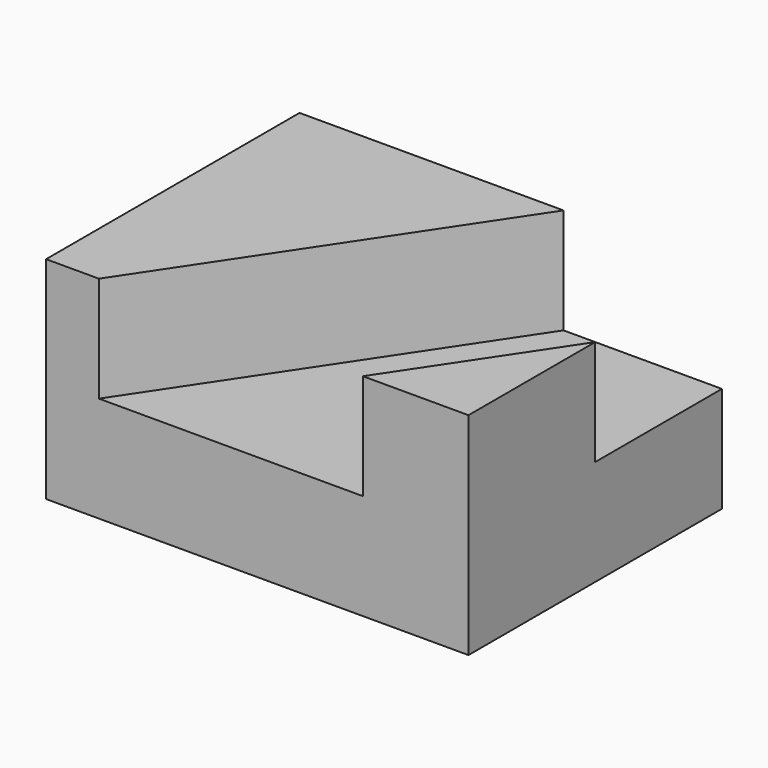
from build123d import *

# Parameters (mm, degrees)
F0_W     = 50.8
F0_H     = 38.1
F1_DEPTH = 12.7
F3_DEPTH = 12.7


with BuildPart() as f1:
    # F0 (on Top) → F1 (new body)
    with BuildSketch(Plane.XY):
        with Locations((4.51437, 14.624796)):
            Rectangle(F0_W, F0_H)
    extrude(amount=F1_DEPTH)

    # F2 (on face) → F3 (join)
    with BuildSketch(Plane.XY.offset(12.7)):
        Polygon((17.21437, -4.425204), (29.91437, -4.425204), (29.91437, 14.624796), align=None)
        Polygon((-20.88563, 33.674796), (-20.88563, -4.425204), (-14.53563, -4.425204), (10.86437, 33.674796), align=None)
    extrude(amount=F3_DEPTH)


solid = f1.part
